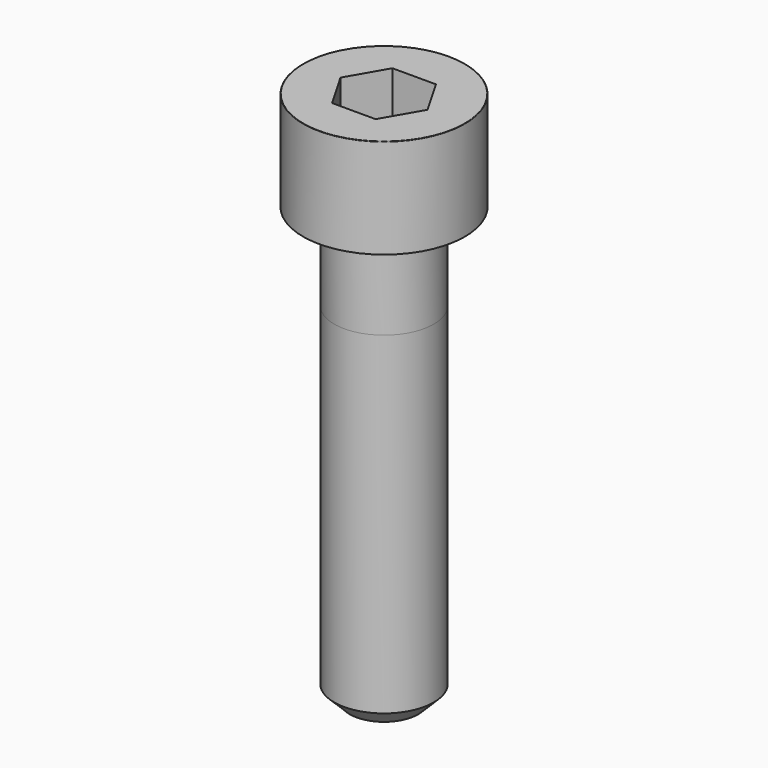
from build123d import *

# Parameters (mm, degrees)
POCKET_DEPTH = 6.06


with BuildPart() as part:
    # Sketch → Revolve (revolve)
    with BuildSketch(Plane.YZ):
        with BuildLine():
            Line((3.999, 0), (6.5, 0))
            Line((6.5, 0), (6.5, 7.97229))
            ThreePointArc((6.5, 7.97229), (6.491884, 7.991884), (6.47229, 8))
            Line((6.47229, 8), (0, 8))
            Line((0, -35), (0, 8))
            Line((2.75, -35), (0, -35))
            Line((4, -33.75), (2.75, -35))
            Line((4, -7), (4, -33.75))
            Line((3.999, 0), (4, -7))
        make_face()
    revolve(axis=Axis((0, 0, 0), (0, 0, 1)))

    # Sketch001 → Pocket (cut)
    with BuildSketch(Plane.XY.offset(8)):
        Polygon((3.498743, 0), (1.749371, 3.03), (-1.749371, 3.03), (-3.498743, 0), (-1.749371, -3.03), (1.749371, -3.03), align=None)
    extrude(amount=-POCKET_DEPTH, mode=Mode.SUBTRACT)


solid = part.part
